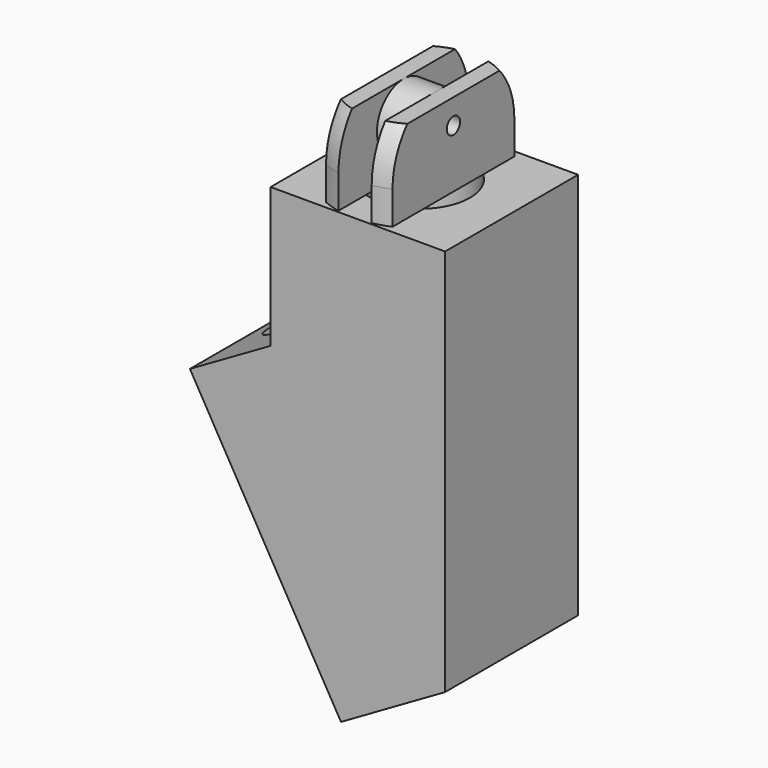
from build123d import *

# Parameters (mm, degrees)
CYLINDER261_R               = 2
CYLINDER261_DEPTH           = 46
CYLINDER261_PLACEMENT_ANGLE = 30
CYLINDER225_R               = 2
CYLINDER225_DEPTH           = 10
CYLINDER225_PLACEMENT_ANGLE = 30
CYLINDER213_R               = 3
CYLINDER213_DEPTH           = 22
CYLINDER217_R               = 0.5
CYLINDER217_DEPTH           = 10
CYLINDER214_R               = 2
CYLINDER214_DEPTH           = 4
CYLINDER218_R               = 3
CYLINDER218_DEPTH           = 10
BOX107_W                    = 10
BOX107_H                    = 10
BOX107_DEPTH                = 10
BOX105_W                    = 2
BOX105_H                    = 10
BOX105_DEPTH                = 10
BOX106_W                    = 10
BOX106_H                    = 10
BOX106_DEPTH                = 10
CYLINDER216_R               = 5
CYLINDER216_DEPTH           = 10
CYLINDER215_R               = 5
CYLINDER215_DEPTH           = 10
BOX104_W                    = 2
BOX104_H                    = 10
BOX104_DEPTH                = 25
BOX103_W                    = 2
BOX103_H                    = 10
BOX103_DEPTH                = 10
BOX102_W                    = 1.5
BOX102_H                    = 10
BOX102_DEPTH                = 24
BOX102_PLACEMENT_ANGLE      = 60
BOX065_W                    = 1
BOX065_H                    = 10
BOX065_DEPTH                = 24
BOX099_W                    = 12
BOX099_H                    = 10
BOX099_DEPTH                = 17
BOX099_PLACEMENT_ANGLE      = 330
BOX097_W                    = 12.5
BOX097_H                    = 10
BOX097_DEPTH                = 43
BOX096_W                    = 32
BOX096_H                    = 10
BOX096_DEPTH                = 43
BOX096_PLACEMENT_ANGLE      = 330
CYLINDER212_R               = 4.85
CYLINDER212_DEPTH           = 10
BOX095_W                    = 13
BOX095_H                    = 16
BOX095_DEPTH                = 32
BOX095_PLACEMENT_ANGLE      = 330
CYLINDER211_R               = 3
CYLINDER211_DEPTH           = 43
CYLINDER200_R               = 2
CYLINDER200_DEPTH           = 30
CYLINDER206_R               = 2
CYLINDER206_DEPTH           = 30
CYLINDER208_R               = 2
CYLINDER208_DEPTH           = 50
CYLINDER209_R               = 2
CYLINDER209_DEPTH           = 15
CYLINDER210_R               = 3
CYLINDER210_DEPTH           = 5
CYLINDER207_R               = 3
CYLINDER207_DEPTH           = 5
CYLINDER201_R               = 0.5
CYLINDER201_DEPTH           = 10
CYLINDER203_R               = 2
CYLINDER203_DEPTH           = 4
CYLINDER205_R               = 3
CYLINDER205_DEPTH           = 10
BOX093_W                    = 10
BOX093_H                    = 10
BOX093_DEPTH                = 10
BOX091_W                    = 2
BOX091_H                    = 10
BOX091_DEPTH                = 10
BOX092_W                    = 10
BOX092_H                    = 10
BOX092_DEPTH                = 10
CYLINDER202_R               = 5
CYLINDER202_DEPTH           = 10
CYLINDER204_R               = 5
CYLINDER204_DEPTH           = 10
CYLINDER199_R               = 0.5
CYLINDER199_DEPTH           = 10
CYLINDER198_R               = 2
CYLINDER198_DEPTH           = 4
CYLINDER196_R               = 3
CYLINDER196_DEPTH           = 10
BOX087_W                    = 10
BOX087_H                    = 10
BOX087_DEPTH                = 10
BOX085_W                    = 2
BOX085_H                    = 10
BOX085_DEPTH                = 10
BOX084_W                    = 10
BOX084_H                    = 10
BOX084_DEPTH                = 10
CYLINDER197_R               = 5
CYLINDER197_DEPTH           = 10
CYLINDER195_R               = 5
CYLINDER195_DEPTH           = 10
BOX086_W                    = 10
BOX086_H                    = 10
BOX086_DEPTH                = 20
BOX089_W                    = 10
BOX089_H                    = 10
BOX089_DEPTH                = 20
BOX090_W                    = 40
BOX090_H                    = 10
BOX090_DEPTH                = 50
BOX090_PLACEMENT_ANGLE      = 30
BOX088_W                    = 40
BOX088_H                    = 10
BOX088_DEPTH                = 50
BOX094_W                    = 32
BOX094_H                    = 10
BOX094_DEPTH                = 43


with BuildPart() as cylinder261:
    # Cylinder261 → Cylinder261 (new body)
    with BuildSketch(Plane.XY):
        Circle(CYLINDER261_R)
    extrude(amount=CYLINDER261_DEPTH)


with BuildPart() as cylinder261_1:
    # Cylinder261 placement: moved
    add(cylinder261.part.moved(Location((-50.83, 0, -93.18))).rotate(Axis((-50.83, 0, -93.18), (0, -1, 0)), CYLINDER261_PLACEMENT_ANGLE))


with BuildPart() as cylinder225:
    # Cylinder225 → Cylinder225 (new body)
    with BuildSketch(Plane.XY):
        Circle(CYLINDER225_R)
    extrude(amount=CYLINDER225_DEPTH)


with BuildPart() as cylinder225_1:
    # Cylinder225 placement: moved
    add(cylinder225.part.moved(Location((-69.936533, 0, -70.815699))).rotate(Axis((-69.936533, 0, -70.815699), (0, 1, 0)), CYLINDER225_PLACEMENT_ANGLE))


with BuildPart() as cylinder213:
    # Cylinder213 → Cylinder213 (new body)
    with BuildSketch(Plane(origin=(-64.5, 0, -69.5), x_dir=(1, 0, 0), z_dir=(0, 0, 1))):
        Circle(CYLINDER213_R)
    extrude(amount=CYLINDER213_DEPTH)


with BuildPart() as cylinder217:
    # Cylinder217 → Cylinder217 (new body)
    with BuildSketch(Plane(origin=(-5, 0, -7), x_dir=(0, 0, -1), z_dir=(1, 0, 0))):
        Circle(CYLINDER217_R)
    extrude(amount=CYLINDER217_DEPTH)


with BuildPart() as cylinder214:
    # Cylinder214 → Cylinder214 (new body)
    with BuildSketch(Plane(origin=(-2, -50, 1), x_dir=(0, 0, -1), z_dir=(1, 0, 0))):
        Circle(CYLINDER214_R)
    extrude(amount=CYLINDER214_DEPTH)


with BuildPart() as cylinder218:
    # Cylinder218 → Cylinder218 (new body)
    with BuildSketch(Plane(origin=(0, -50, -12), x_dir=(1, 0, 0), z_dir=(0, 0, 1))):
        Circle(CYLINDER218_R)
    extrude(amount=CYLINDER218_DEPTH)


with BuildPart() as cube107:
    # Box107 → Box107 (new body)
    with BuildSketch(Plane(origin=(-12, -55, -2), x_dir=(1, 0, 0), z_dir=(0, 0, 1))):
        with Locations((5, 5)):
            Rectangle(BOX107_W, BOX107_H)
    extrude(amount=BOX107_DEPTH)


with BuildPart() as cube105:
    # Box105 → Box105 (new body)
    with BuildSketch(Plane(origin=(-1, -55, -2), x_dir=(1, 0, 0), z_dir=(0, 0, 1))):
        with Locations((1, 5)):
            Rectangle(BOX105_W, BOX105_H)
    extrude(amount=BOX105_DEPTH)


with BuildPart() as cube106:
    # Box106 → Box106 (new body)
    with BuildSketch(Plane(origin=(2, -55, -2), x_dir=(1, 0, 0), z_dir=(0, 0, 1))):
        with Locations((5, 5)):
            Rectangle(BOX106_W, BOX106_H)
    extrude(amount=BOX106_DEPTH)


with BuildPart() as cylinder216:
    # Cylinder216 → Cylinder216 (new body)
    with BuildSketch(Plane(origin=(0, -50, -10), x_dir=(1, 0, 0), z_dir=(0, 0, 1))):
        Circle(CYLINDER216_R)
    extrude(amount=CYLINDER216_DEPTH)


with BuildPart() as sphere044:
    # Sphere044 → Sphere044 (revolve)
    with BuildSketch(Plane.XZ.offset(50)):
        with BuildLine():
            ThreePointArc((5, 0), (3.535534, 3.535534), (0, 5))
            Line((0, 5), (0, 0))
            Line((0, 0), (5, 0))
        make_face()
    revolve(axis=Axis((0, -50, 0), (0, 0, 1)))


with BuildPart() as cut204006008:
    # Cylinder215 → Cylinder215 (new body)
    with BuildSketch(Plane(origin=(0, -50, -7), x_dir=(1, 0, 0), z_dir=(0, 0, 1))):
        Circle(CYLINDER215_R)
    extrude(amount=CYLINDER215_DEPTH)

    # Common037: intersect Sphere044
    add(sphere044.part, mode=Mode.INTERSECT)

    # Fusion005077020003: union Cylinder216
    add(cylinder216.part)

    # Cut204006007: cut Cube106
    add(cube106.part, mode=Mode.SUBTRACT)

    # Cut204006009: cut Cube105
    add(cube105.part, mode=Mode.SUBTRACT)

    # Cut204006010: cut Cube107
    add(cube107.part, mode=Mode.SUBTRACT)

    # Cut204006006: cut Cylinder218
    add(cylinder218.part, mode=Mode.SUBTRACT)

    # Fusion005077020002: union Cylinder214
    add(cylinder214.part)


with BuildPart() as cut204006008_1:
    # Fusion005077020004 placement: moved
    add(cut204006008.part.moved(Location((0, 50, -8.5))))

    # Cut204006008: cut Cylinder217
    add(cylinder217.part, mode=Mode.SUBTRACT)


with BuildPart() as cut204006008_2:
    # Cut204006008 placement: moved
    add(cut204006008_1.part.moved(Location((-64.5, 0, -37))))


with BuildPart() as cube104:
    # Box104 → Box104 (new body)
    with BuildSketch(Plane(origin=(-59, -5, -72), x_dir=(1, 0, 0), z_dir=(0, 0, 1))):
        with Locations((1, 5)):
            Rectangle(BOX104_W, BOX104_H)
    extrude(amount=BOX104_DEPTH)


with BuildPart() as cube103:
    # Box103 → Box103 (new body)
    with BuildSketch(Plane(origin=(-57.5, -5, -72), x_dir=(1, 0, 0), z_dir=(0, 0, 1))):
        with Locations((1, 5)):
            Rectangle(BOX103_W, BOX103_H)
    extrude(amount=BOX103_DEPTH)


with BuildPart() as cube102:
    # Box102 → Box102 (new body)
    with BuildSketch(Plane.XY):
        with Locations((0.75, 5)):
            Rectangle(BOX102_W, BOX102_H)
    extrude(amount=BOX102_DEPTH)


with BuildPart() as cube102_1:
    # Box102 placement: moved
    add(cube102.part.moved(Location((-189.24, -5, -81.946987))).rotate(Axis((-189.24, -5, -81.946987), (0, 1, 0)), BOX102_PLACEMENT_ANGLE))


with BuildPart() as cube065:
    # Box065 → Box065 (new body)
    with BuildSketch(Plane(origin=(-169, -5, -70.5), x_dir=(1, 0, 0), z_dir=(0, 0, 1))):
        with Locations((0.5, 5)):
            Rectangle(BOX065_W, BOX065_H)
    extrude(amount=BOX065_DEPTH)


with BuildPart() as cube099:
    # Box099 → Box099 (new body)
    with BuildSketch(Plane.XY):
        with Locations((6, 5)):
            Rectangle(BOX099_W, BOX099_H)
    extrude(amount=BOX099_DEPTH)


with BuildPart() as cube099_1:
    # Box099 placement: moved
    add(cube099.part.moved(Location((-167.14, -5, -90.45))).rotate(Axis((-167.14, -5, -90.45), (0, 1, 0)), BOX099_PLACEMENT_ANGLE))


with BuildPart() as cube097:
    # Box097 → Box097 (new body)
    with BuildSketch(Plane(origin=(-168, -5, -90.5), x_dir=(1, 0, 0), z_dir=(0, 0, 1))):
        with Locations((6.25, 5)):
            Rectangle(BOX097_W, BOX097_H)
    extrude(amount=BOX097_DEPTH)


with BuildPart() as cube096:
    # Box096 → Box096 (new body)
    with BuildSketch(Plane.XY):
        with Locations((16, 5)):
            Rectangle(BOX096_W, BOX096_H)
    extrude(amount=BOX096_DEPTH)


with BuildPart() as cube096_1:
    # Box096 placement: moved
    add(cube096.part.moved(Location((-192.839746, -5, -109.748711))).rotate(Axis((-192.839746, -5, -109.748711), (0, 1, 0)), BOX096_PLACEMENT_ANGLE))


with BuildPart() as cylinder212:
    # Cylinder212 → Cylinder212 (new body)
    with BuildSketch(Plane(origin=(-45.5, -1, -56.5), x_dir=(1, 0, 0), z_dir=(0, 0, 1))):
        Circle(CYLINDER212_R)
    extrude(amount=CYLINDER212_DEPTH)


with BuildPart() as cube095:
    # Box095 → Box095 (new body)
    with BuildSketch(Plane.XY):
        with Locations((6.5, 8)):
            Rectangle(BOX095_W, BOX095_H)
    extrude(amount=BOX095_DEPTH)


with BuildPart() as cube095_1:
    # Box095 placement: moved
    add(cube095.part.moved(Location((-37.892051, -7.5, -98.12))).rotate(Axis((-37.892051, -7.5, -98.12), (0, 1, 0)), BOX095_PLACEMENT_ANGLE))


with BuildPart() as cylinder211:
    # Cylinder211 → Cylinder211 (new body)
    with BuildSketch(Plane(origin=(-93, 0, -100.5), x_dir=(1, 0, 0), z_dir=(0, 0, 1))):
        Circle(CYLINDER211_R)
    extrude(amount=CYLINDER211_DEPTH)


with BuildPart() as cylinder200:
    # Cylinder200 → Cylinder200 (new body)
    with BuildSketch(Plane(origin=(-61.5, 0, -136), x_dir=(1, 0, 0), z_dir=(0, 0, 1))):
        Circle(CYLINDER200_R)
    extrude(amount=CYLINDER200_DEPTH)


with BuildPart() as cylinder206:
    # Cylinder206 → Cylinder206 (new body)
    with BuildSketch(Plane(origin=(-69, 0, -136), x_dir=(1, 0, 0), z_dir=(0, 0, 1))):
        Circle(CYLINDER206_R)
    extrude(amount=CYLINDER206_DEPTH)


with BuildPart() as cylinder208:
    # Cylinder208 → Cylinder208 (new body)
    with BuildSketch(Plane(origin=(-81, 0, -143.5), x_dir=(1, 0, 0), z_dir=(0, 0, 1))):
        Circle(CYLINDER208_R)
    extrude(amount=CYLINDER208_DEPTH)


with BuildPart() as cylinder209:
    # Cylinder209 → Cylinder209 (new body)
    with BuildSketch(Plane(origin=(-92, 0, -91), x_dir=(0, 0, -1), z_dir=(1, 0, 0))):
        Circle(CYLINDER209_R)
    extrude(amount=CYLINDER209_DEPTH)


with BuildPart() as cylinder210:
    # Cylinder210 → Cylinder210 (new body)
    with BuildSketch(Plane(origin=(-77, 0, -89.5), x_dir=(1, 0, 0), z_dir=(0, 0, 1))):
        Circle(CYLINDER210_R)
    extrude(amount=CYLINDER210_DEPTH)


with BuildPart() as cylinder207:
    # Cylinder207 → Cylinder207 (new body)
    with BuildSketch(Plane(origin=(-92.5, 0, -89.5), x_dir=(1, 0, 0), z_dir=(0, 0, 1))):
        Circle(CYLINDER207_R)
    extrude(amount=CYLINDER207_DEPTH)


with BuildPart() as cylinder201:
    # Cylinder201 → Cylinder201 (new body)
    with BuildSketch(Plane(origin=(-5, 0, -7), x_dir=(0, 0, -1), z_dir=(1, 0, 0))):
        Circle(CYLINDER201_R)
    extrude(amount=CYLINDER201_DEPTH)


with BuildPart() as cylinder203:
    # Cylinder203 → Cylinder203 (new body)
    with BuildSketch(Plane(origin=(-2, -50, 1), x_dir=(0, 0, -1), z_dir=(1, 0, 0))):
        Circle(CYLINDER203_R)
    extrude(amount=CYLINDER203_DEPTH)


with BuildPart() as cylinder205:
    # Cylinder205 → Cylinder205 (new body)
    with BuildSketch(Plane(origin=(0, -50, -12), x_dir=(1, 0, 0), z_dir=(0, 0, 1))):
        Circle(CYLINDER205_R)
    extrude(amount=CYLINDER205_DEPTH)


with BuildPart() as cube093:
    # Box093 → Box093 (new body)
    with BuildSketch(Plane(origin=(-12, -55, -2), x_dir=(1, 0, 0), z_dir=(0, 0, 1))):
        with Locations((5, 5)):
            Rectangle(BOX093_W, BOX093_H)
    extrude(amount=BOX093_DEPTH)


with BuildPart() as cube091:
    # Box091 → Box091 (new body)
    with BuildSketch(Plane(origin=(-1, -55, -2), x_dir=(1, 0, 0), z_dir=(0, 0, 1))):
        with Locations((1, 5)):
            Rectangle(BOX091_W, BOX091_H)
    extrude(amount=BOX091_DEPTH)


with BuildPart() as cube092:
    # Box092 → Box092 (new body)
    with BuildSketch(Plane(origin=(2, -55, -2), x_dir=(1, 0, 0), z_dir=(0, 0, 1))):
        with Locations((5, 5)):
            Rectangle(BOX092_W, BOX092_H)
    extrude(amount=BOX092_DEPTH)


with BuildPart() as cylinder202:
    # Cylinder202 → Cylinder202 (new body)
    with BuildSketch(Plane(origin=(0, -50, -10), x_dir=(1, 0, 0), z_dir=(0, 0, 1))):
        Circle(CYLINDER202_R)
    extrude(amount=CYLINDER202_DEPTH)


with BuildPart() as sphere043:
    # Sphere043 → Sphere043 (revolve)
    with BuildSketch(Plane.XZ.offset(50)):
        with BuildLine():
            ThreePointArc((5, 0), (3.535534, 3.535534), (0, 5))
            Line((0, 5), (0, 0))
            Line((0, 0), (5, 0))
        make_face()
    revolve(axis=Axis((0, -50, 0), (0, 0, 1)))


with BuildPart() as cut193:
    # Cylinder204 → Cylinder204 (new body)
    with BuildSketch(Plane(origin=(0, -50, -7), x_dir=(1, 0, 0), z_dir=(0, 0, 1))):
        Circle(CYLINDER204_R)
    extrude(amount=CYLINDER204_DEPTH)

    # Common036: intersect Sphere043
    add(sphere043.part, mode=Mode.INTERSECT)

    # Fusion005077015: union Cylinder202
    add(cylinder202.part)

    # Cut192: cut Cube092
    add(cube092.part, mode=Mode.SUBTRACT)

    # Cut194: cut Cube091
    add(cube091.part, mode=Mode.SUBTRACT)

    # Cut195: cut Cube093
    add(cube093.part, mode=Mode.SUBTRACT)

    # Cut196: cut Cylinder205
    add(cylinder205.part, mode=Mode.SUBTRACT)

    # Fusion005077016: union Cylinder203
    add(cylinder203.part)


with BuildPart() as cut193_1:
    # Fusion005077014 placement: moved
    add(cut193.part.moved(Location((0, 50, -8.5))))

    # Cut193: cut Cylinder201
    add(cylinder201.part, mode=Mode.SUBTRACT)


with BuildPart() as cut193_2:
    # Cut193 placement: moved
    add(cut193_1.part.moved(Location((-77, 0, -74))))


with BuildPart() as cylinder199:
    # Cylinder199 → Cylinder199 (new body)
    with BuildSketch(Plane(origin=(-5, 0, -7), x_dir=(0, 0, -1), z_dir=(1, 0, 0))):
        Circle(CYLINDER199_R)
    extrude(amount=CYLINDER199_DEPTH)


with BuildPart() as cylinder198:
    # Cylinder198 → Cylinder198 (new body)
    with BuildSketch(Plane(origin=(-2, -50, 1), x_dir=(0, 0, -1), z_dir=(1, 0, 0))):
        Circle(CYLINDER198_R)
    extrude(amount=CYLINDER198_DEPTH)


with BuildPart() as cylinder196:
    # Cylinder196 → Cylinder196 (new body)
    with BuildSketch(Plane(origin=(0, -50, -12), x_dir=(1, 0, 0), z_dir=(0, 0, 1))):
        Circle(CYLINDER196_R)
    extrude(amount=CYLINDER196_DEPTH)


with BuildPart() as cube087:
    # Box087 → Box087 (new body)
    with BuildSketch(Plane(origin=(-12, -55, -2), x_dir=(1, 0, 0), z_dir=(0, 0, 1))):
        with Locations((5, 5)):
            Rectangle(BOX087_W, BOX087_H)
    extrude(amount=BOX087_DEPTH)


with BuildPart() as cube085:
    # Box085 → Box085 (new body)
    with BuildSketch(Plane(origin=(-1, -55, -2), x_dir=(1, 0, 0), z_dir=(0, 0, 1))):
        with Locations((1, 5)):
            Rectangle(BOX085_W, BOX085_H)
    extrude(amount=BOX085_DEPTH)


with BuildPart() as cube084:
    # Box084 → Box084 (new body)
    with BuildSketch(Plane(origin=(2, -55, -2), x_dir=(1, 0, 0), z_dir=(0, 0, 1))):
        with Locations((5, 5)):
            Rectangle(BOX084_W, BOX084_H)
    extrude(amount=BOX084_DEPTH)


with BuildPart() as cylinder197:
    # Cylinder197 → Cylinder197 (new body)
    with BuildSketch(Plane(origin=(0, -50, -10), x_dir=(1, 0, 0), z_dir=(0, 0, 1))):
        Circle(CYLINDER197_R)
    extrude(amount=CYLINDER197_DEPTH)


with BuildPart() as sphere042:
    # Sphere042 → Sphere042 (revolve)
    with BuildSketch(Plane.XZ.offset(50)):
        with BuildLine():
            ThreePointArc((5, 0), (3.535534, 3.535534), (0, 5))
            Line((0, 5), (0, 0))
            Line((0, 0), (5, 0))
        make_face()
    revolve(axis=Axis((0, -50, 0), (0, 0, 1)))


with BuildPart() as cut186:
    # Cylinder195 → Cylinder195 (new body)
    with BuildSketch(Plane(origin=(0, -50, -7), x_dir=(1, 0, 0), z_dir=(0, 0, 1))):
        Circle(CYLINDER195_R)
    extrude(amount=CYLINDER195_DEPTH)

    # Common035: intersect Sphere042
    add(sphere042.part, mode=Mode.INTERSECT)

    # Fusion005077012: union Cylinder197
    add(cylinder197.part)

    # Cut189: cut Cube084
    add(cube084.part, mode=Mode.SUBTRACT)

    # Cut187: cut Cube085
    add(cube085.part, mode=Mode.SUBTRACT)

    # Cut183: cut Cube087
    add(cube087.part, mode=Mode.SUBTRACT)

    # Cut184: cut Cylinder196
    add(cylinder196.part, mode=Mode.SUBTRACT)

    # Fusion005077011: union Cylinder198
    add(cylinder198.part)


with BuildPart() as cut186_1:
    # Fusion005077013 placement: moved
    add(cut186.part.moved(Location((0, 50, -8.5))))

    # Cut186: cut Cylinder199
    add(cylinder199.part, mode=Mode.SUBTRACT)


with BuildPart() as cut186_2:
    # Cut186 placement: moved
    add(cut186_1.part.moved(Location((-92, 0, -74))))


with BuildPart() as cube086:
    # Box086 → Box086 (new body)
    with BuildSketch(Plane(origin=(-70, -5, -83.5), x_dir=(0, 0, -1), z_dir=(1, 0, 0))):
        with Locations((5, 5)):
            Rectangle(BOX086_W, BOX086_H)
    extrude(amount=BOX086_DEPTH)


with BuildPart() as cube089:
    # Box089 → Box089 (new body)
    with BuildSketch(Plane(origin=(-98, -5, -118.5), x_dir=(1, 0, 0), z_dir=(0, 0, 1))):
        with Locations((5, 5)):
            Rectangle(BOX089_W, BOX089_H)
    extrude(amount=BOX089_DEPTH)


with BuildPart() as cube090:
    # Box090 → Box090 (new body)
    with BuildSketch(Plane.XY):
        with Locations((20, 5)):
            Rectangle(BOX090_W, BOX090_H)
    extrude(amount=BOX090_DEPTH)


with BuildPart() as cube090_1:
    # Box090 placement: moved
    add(cube090.part.moved(Location((-51.158872, -5, -139.76751))).rotate(Axis((-51.158872, -5, -139.76751), (0, -1, 0)), BOX090_PLACEMENT_ANGLE))


with BuildPart() as cut202:
    # Box088 → Box088 (new body)
    with BuildSketch(Plane(origin=(-98, -5, -134.5), x_dir=(1, 0, 0), z_dir=(0, 0, 1))):
        with Locations((20, 5)):
            Rectangle(BOX088_W, BOX088_H)
    extrude(amount=BOX088_DEPTH)

    # Cut185: cut Cube090
    add(cube090_1.part, mode=Mode.SUBTRACT)

    # Cut190: cut Cube089
    add(cube089.part, mode=Mode.SUBTRACT)

    # Cut188: cut Cube086
    add(cube086.part, mode=Mode.SUBTRACT)

    # Fusion005077017: union Cut186
    add(cut186_2.part)

    # Fusion005077019: union Cut193
    add(cut193_2.part)

    # Cut198: cut Cylinder207
    add(cylinder207.part, mode=Mode.SUBTRACT)

    # Cut199: cut Cylinder210
    add(cylinder210.part, mode=Mode.SUBTRACT)

    # Cut197: cut Cylinder209
    add(cylinder209.part, mode=Mode.SUBTRACT)

    # Cut201: cut Cylinder208
    add(cylinder208.part, mode=Mode.SUBTRACT)

    # Cut200: cut Cylinder206
    add(cylinder206.part, mode=Mode.SUBTRACT)

    # Cut191: cut Cylinder200
    add(cylinder200.part, mode=Mode.SUBTRACT)


with BuildPart() as cut202_1:
    # Cut191 placement: moved
    add(cut202.part.moved(Location((0, 0, 37))))

    # Cut202: cut Cylinder211
    add(cylinder211.part, mode=Mode.SUBTRACT)


with BuildPart() as cut202_2:
    # Cut202 placement: moved
    add(cut202_1.part.moved(Location((132, 0, 0))))


with BuildPart() as cut204006068001:
    # Box094 → Box094 (new body)
    with BuildSketch(Plane(origin=(55, -5, -90.5), x_dir=(1, 0, 0), z_dir=(0, 0, 1))):
        with Locations((16, 5)):
            Rectangle(BOX094_W, BOX094_H)
    extrude(amount=BOX094_DEPTH)

    # Cut203: cut Cut202
    add(cut202_2.part, mode=Mode.SUBTRACT)


with BuildPart() as cut204006068001_1:
    # Cut203 placement: moved
    add(cut204006068001.part.moved(Location((-101, 0, 0))))

    # Cut204: cut Cube095
    add(cube095_1.part, mode=Mode.SUBTRACT)

    # Cut204002: cut Cylinder212
    add(cylinder212.part, mode=Mode.SUBTRACT)


with BuildPart() as cut204006068001_2:
    # Cut204002 placement: moved
    add(cut204006068001_1.part.moved(Location((-141.5, 0, 0))))

    # Cut204003: cut Cube096
    add(cube096_1.part, mode=Mode.SUBTRACT)

    # Cut204004: cut Cube097
    add(cube097.part, mode=Mode.SUBTRACT)

    # Cut204005: cut Cube099
    add(cube099_1.part, mode=Mode.SUBTRACT)

    # Cut204006002: cut Cube065
    add(cube065.part, mode=Mode.SUBTRACT)

    # Cut204006003: cut Cube102
    add(cube102_1.part, mode=Mode.SUBTRACT)


with BuildPart() as cut204006068001_3:
    # Cut204006003 placement: moved
    add(cut204006068001_2.part.moved(Location((111, 0, 0))))

    # Cut204006004: cut Cube103
    add(cube103.part, mode=Mode.SUBTRACT)

    # Cut204006005: cut Cube104
    add(cube104.part, mode=Mode.SUBTRACT)

    # Fusion005077020008: union Cut204006008
    add(cut204006008_2.part)

    # Cut204006016: cut Cylinder213
    add(cylinder213.part, mode=Mode.SUBTRACT)

    # Cut204006017: cut Cylinder225
    add(cylinder225_1.part, mode=Mode.SUBTRACT)

    # Cut204006068: cut Cylinder261
    add(cylinder261_1.part, mode=Mode.SUBTRACT)


solid = cut204006068001_3.part
